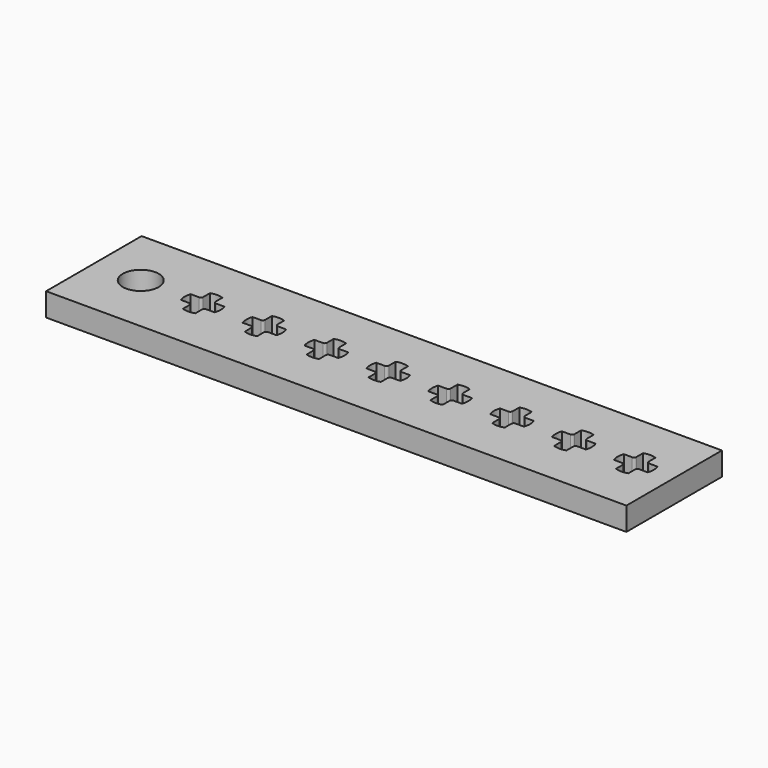
from build123d import *

# Parameters (mm, degrees)
F0_W     = 75.035495
F0_H     = 15.439995
F0_R     = 2.325
F1_DEPTH = 3


with BuildPart() as f1:
    # F0 (on Top) → F1 (new body)
    with BuildSketch(Plane.XY):
        with Locations((23.531661, -0.09854)):
            Rectangle(F0_W, F0_H)
        with Locations((-8, 0)):
            Circle(F0_R, mode=Mode.SUBTRACT)
        with BuildLine():
            Line((0.8, 2.183031), (0.8, 1.1))
            ThreePointArc((0.8, 1.1), (0.887868, 0.887868), (1.1, 0.8))
            Line((1.1, 0.8), (2.183031, 0.8))
            ThreePointArc((2.183031, 0.8), (2.325, 0), (2.183031, -0.8))
            Line((2.183031, -0.8), (1.1, -0.8))
            ThreePointArc((1.1, -0.8), (0.887868, -0.887868), (0.8, -1.1))
            Line((0.8, -1.1), (0.8, -2.183031))
            ThreePointArc((0.8, -2.183031), (0, -2.325), (-0.8, -2.183031))
            Line((-0.8, -2.183031), (-0.8, -1.1))
            ThreePointArc((-0.8, -1.1), (-0.887868, -0.887868), (-1.1, -0.8))
            Line((-1.1, -0.8), (-2.183031, -0.8))
            ThreePointArc((-2.183031, -0.8), (-2.325, 0), (-2.183031, 0.8))
            Line((-2.183031, 0.8), (-1.1, 0.8))
            ThreePointArc((-1.1, 0.8), (-0.887868, 0.887868), (-0.8, 1.1))
            Line((-0.8, 1.1), (-0.8, 2.183031))
            ThreePointArc((-0.8, 2.183031), (0, 2.325), (0.8, 2.183031))
        make_face(mode=Mode.SUBTRACT)
        with BuildLine():
            ThreePointArc((8.8, -2.183031), (8, -2.325), (7.2, -2.183031))
            Line((7.2, -2.183031), (7.2, -1.1))
            ThreePointArc((7.2, -1.1), (7.112132, -0.887868), (6.9, -0.8))
            Line((6.9, -0.8), (5.816969, -0.8))
            ThreePointArc((5.816969, -0.8), (5.675, 0), (5.816969, 0.8))
            Line((5.816969, 0.8), (6.9, 0.8))
            ThreePointArc((6.9, 0.8), (7.112132, 0.887868), (7.2, 1.1))
            Line((7.2, 1.1), (7.2, 2.183031))
            ThreePointArc((7.2, 2.183031), (8, 2.325), (8.8, 2.183031))
            Line((8.8, 2.183031), (8.8, 1.1))
            ThreePointArc((8.8, 1.1), (8.887868, 0.887868), (9.1, 0.8))
            Line((9.1, 0.8), (10.183031, 0.8))
            ThreePointArc((10.183031, 0.8), (10.325, 0), (10.183031, -0.8))
            Line((10.183031, -0.8), (9.1, -0.8))
            ThreePointArc((9.1, -0.8), (8.887868, -0.887868), (8.8, -1.1))
            Line((8.8, -1.1), (8.8, -2.183031))
        make_face(mode=Mode.SUBTRACT)
        with BuildLine():
            ThreePointArc((16.8, -2.183031), (16, -2.325), (15.2, -2.183031))
            Line((15.2, -2.183031), (15.2, -1.1))
            ThreePointArc((15.2, -1.1), (15.112132, -0.887868), (14.9, -0.8))
            Line((14.9, -0.8), (13.816969, -0.8))
            ThreePointArc((13.816969, -0.8), (13.675, 0), (13.816969, 0.8))
            Line((13.816969, 0.8), (14.9, 0.8))
            ThreePointArc((14.9, 0.8), (15.112132, 0.887868), (15.2, 1.1))
            Line((15.2, 1.1), (15.2, 2.183031))
            ThreePointArc((15.2, 2.183031), (16, 2.325), (16.8, 2.183031))
            Line((16.8, 2.183031), (16.8, 1.1))
            ThreePointArc((16.8, 1.1), (16.887868, 0.887868), (17.1, 0.8))
            Line((17.1, 0.8), (18.183031, 0.8))
            ThreePointArc((18.183031, 0.8), (18.325, 0), (18.183031, -0.8))
            Line((18.183031, -0.8), (17.1, -0.8))
            ThreePointArc((17.1, -0.8), (16.887868, -0.887868), (16.8, -1.1))
            Line((16.8, -1.1), (16.8, -2.183031))
        make_face(mode=Mode.SUBTRACT)
        with BuildLine():
            ThreePointArc((24.8, -2.183031), (24, -2.325), (23.2, -2.183031))
            Line((23.2, -2.183031), (23.2, -1.1))
            ThreePointArc((23.2, -1.1), (23.112132, -0.887868), (22.9, -0.8))
            Line((22.9, -0.8), (21.816969, -0.8))
            ThreePointArc((21.816969, -0.8), (21.675, 0), (21.816969, 0.8))
            Line((21.816969, 0.8), (22.9, 0.8))
            ThreePointArc((22.9, 0.8), (23.112132, 0.887868), (23.2, 1.1))
            Line((23.2, 1.1), (23.2, 2.183031))
            ThreePointArc((23.2, 2.183031), (24, 2.325), (24.8, 2.183031))
            Line((24.8, 2.183031), (24.8, 1.1))
            ThreePointArc((24.8, 1.1), (24.887868, 0.887868), (25.1, 0.8))
            Line((25.1, 0.8), (26.183031, 0.8))
            ThreePointArc((26.183031, 0.8), (26.325, 0), (26.183031, -0.8))
            Line((26.183031, -0.8), (25.1, -0.8))
            ThreePointArc((25.1, -0.8), (24.887868, -0.887868), (24.8, -1.1))
            Line((24.8, -1.1), (24.8, -2.183031))
        make_face(mode=Mode.SUBTRACT)
        with BuildLine():
            ThreePointArc((32.8, -2.183031), (32, -2.325), (31.2, -2.183031))
            Line((31.2, -2.183031), (31.2, -1.1))
            ThreePointArc((31.2, -1.1), (31.112132, -0.887868), (30.9, -0.8))
            Line((30.9, -0.8), (29.816969, -0.8))
            ThreePointArc((29.816969, -0.8), (29.675, 0), (29.816969, 0.8))
            Line((29.816969, 0.8), (30.9, 0.8))
            ThreePointArc((30.9, 0.8), (31.112132, 0.887868), (31.2, 1.1))
            Line((31.2, 1.1), (31.2, 2.183031))
            ThreePointArc((31.2, 2.183031), (32, 2.325), (32.8, 2.183031))
            Line((32.8, 2.183031), (32.8, 1.1))
            ThreePointArc((32.8, 1.1), (32.887868, 0.887868), (33.1, 0.8))
            Line((33.1, 0.8), (34.183031, 0.8))
            ThreePointArc((34.183031, 0.8), (34.325, 0), (34.183031, -0.8))
            Line((34.183031, -0.8), (33.1, -0.8))
            ThreePointArc((33.1, -0.8), (32.887868, -0.887868), (32.8, -1.1))
            Line((32.8, -1.1), (32.8, -2.183031))
        make_face(mode=Mode.SUBTRACT)
        with BuildLine():
            ThreePointArc((40.8, -2.183031), (40, -2.325), (39.2, -2.183031))
            Line((39.2, -2.183031), (39.2, -1.1))
            ThreePointArc((39.2, -1.1), (39.112132, -0.887868), (38.9, -0.8))
            Line((38.9, -0.8), (37.816969, -0.8))
            ThreePointArc((37.816969, -0.8), (37.675, 0), (37.816969, 0.8))
            Line((37.816969, 0.8), (38.9, 0.8))
            ThreePointArc((38.9, 0.8), (39.112132, 0.887868), (39.2, 1.1))
            Line((39.2, 1.1), (39.2, 2.183031))
            ThreePointArc((39.2, 2.183031), (40, 2.325), (40.8, 2.183031))
            Line((40.8, 2.183031), (40.8, 1.1))
            ThreePointArc((40.8, 1.1), (40.887868, 0.887868), (41.1, 0.8))
            Line((41.1, 0.8), (42.183031, 0.8))
            ThreePointArc((42.183031, 0.8), (42.325, 0), (42.183031, -0.8))
            Line((42.183031, -0.8), (41.1, -0.8))
            ThreePointArc((41.1, -0.8), (40.887868, -0.887868), (40.8, -1.1))
            Line((40.8, -1.1), (40.8, -2.183031))
        make_face(mode=Mode.SUBTRACT)
        with BuildLine():
            ThreePointArc((48.8, -2.183031), (48, -2.325), (47.2, -2.183031))
            Line((47.2, -2.183031), (47.2, -1.1))
            ThreePointArc((47.2, -1.1), (47.112132, -0.887868), (46.9, -0.8))
            Line((46.9, -0.8), (45.816969, -0.8))
            ThreePointArc((45.816969, -0.8), (45.675, 0), (45.816969, 0.8))
            Line((45.816969, 0.8), (46.9, 0.8))
            ThreePointArc((46.9, 0.8), (47.112132, 0.887868), (47.2, 1.1))
            Line((47.2, 1.1), (47.2, 2.183031))
            ThreePointArc((47.2, 2.183031), (48, 2.325), (48.8, 2.183031))
            Line((48.8, 2.183031), (48.8, 1.1))
            ThreePointArc((48.8, 1.1), (48.887868, 0.887868), (49.1, 0.8))
            Line((49.1, 0.8), (50.183031, 0.8))
            ThreePointArc((50.183031, 0.8), (50.325, 0), (50.183031, -0.8))
            Line((50.183031, -0.8), (49.1, -0.8))
            ThreePointArc((49.1, -0.8), (48.887868, -0.887868), (48.8, -1.1))
            Line((48.8, -1.1), (48.8, -2.183031))
        make_face(mode=Mode.SUBTRACT)
        with BuildLine():
            ThreePointArc((56.8, -2.183031), (56, -2.325), (55.2, -2.183031))
            Line((55.2, -2.183031), (55.2, -1.1))
            ThreePointArc((55.2, -1.1), (55.112132, -0.887868), (54.9, -0.8))
            Line((54.9, -0.8), (53.816969, -0.8))
            ThreePointArc((53.816969, -0.8), (53.675, 0), (53.816969, 0.8))
            Line((53.816969, 0.8), (54.9, 0.8))
            ThreePointArc((54.9, 0.8), (55.112132, 0.887868), (55.2, 1.1))
            Line((55.2, 1.1), (55.2, 2.183031))
            ThreePointArc((55.2, 2.183031), (56, 2.325), (56.8, 2.183031))
            Line((56.8, 2.183031), (56.8, 1.1))
            ThreePointArc((56.8, 1.1), (56.887868, 0.887868), (57.1, 0.8))
            Line((57.1, 0.8), (58.183031, 0.8))
            ThreePointArc((58.183031, 0.8), (58.325, 0), (58.183031, -0.8))
            Line((58.183031, -0.8), (57.1, -0.8))
            ThreePointArc((57.1, -0.8), (56.887868, -0.887868), (56.8, -1.1))
            Line((56.8, -1.1), (56.8, -2.183031))
        make_face(mode=Mode.SUBTRACT)
    extrude(amount=F1_DEPTH)


solid = f1.part
